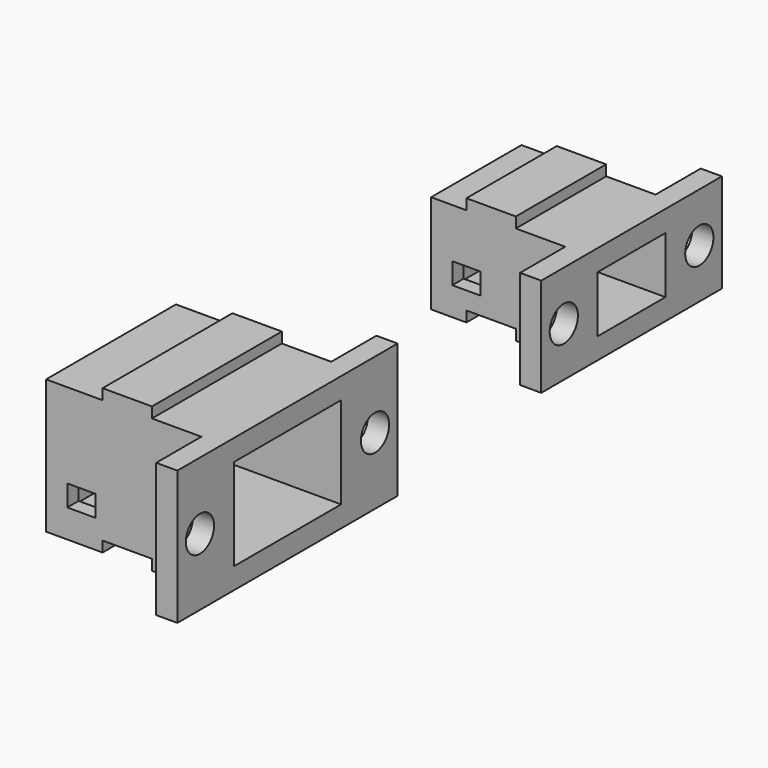
from build123d import *

# Parameters (mm, degrees)
F0_W      = 23
F0_H      = 19
F0_W_2    = 19
F0_H_2    = 13
F1_DEPTH  = 23
F0_W_3    = 8
F0_R      = 2.5
F2_DEPTH  = 3
F3_W      = 23
F3_H      = 19
F4_DEPTH  = 2
F5_W      = 4
F5_H      = 3
F6_DEPTH  = 3
F5_W_2    = 7
F5_H_2    = 1.5
F7_DEPTH  = 23
F8_DEPTH  = 23
F0_W_4    = 16
F0_H_3    = 14
F0_W_5    = 12
F0_H_4    = 8
F9_DEPTH  = 20
F10_DEPTH = 3
F11_W     = 16
F11_H     = 14
F12_DEPTH = 2
F13_W     = 4
F13_H     = 3
F14_DEPTH = 3
F13_W_2   = 7
F13_H_2   = 1.5
F15_DEPTH = 16
F16_DEPTH = 16


with BuildPart() as f1:
    # F0 (on Right) → F1 (new body)
    with BuildSketch(Plane.YZ):
        with Locations((-48.1618642807, 0)):
            Rectangle(F0_W, F0_H)
        with Locations((-48.1618642807, 0)):
            Rectangle(F0_W_2, F0_H_2, mode=Mode.SUBTRACT)
    extrude(amount=-F1_DEPTH)

    # F0 (on Right) → F2 (join)
    with BuildSketch(Plane.YZ):
        with Locations((-63.6618642807, 0)):
            Rectangle(F0_W_3, F0_H)
        with Locations((-63.6618642807, 0)):
            Circle(F0_R, mode=Mode.SUBTRACT)
        with Locations((-32.6618642807, 0)):
            Rectangle(F0_W_3, F0_H)
        with Locations((-32.6618642807, 0)):
            Circle(F0_R, mode=Mode.SUBTRACT)
    extrude(amount=-F2_DEPTH)

    # F3 (on face) → F4 (join)
    with BuildSketch(Plane(origin=(-23, 0, 0), x_dir=(0, -1, 0), z_dir=(-1, 0, 0))):
        with Locations((48.1618642807, 0)):
            Rectangle(F3_W, F3_H)
    extrude(amount=F4_DEPTH)

    # F5 (on face) → F6 (cut)
    with BuildSketch(Plane.XZ.offset(59.6618642807)):
        with Locations((-20, -4)):
            Rectangle(F5_W, F5_H)
    extrude(amount=-F6_DEPTH, mode=Mode.SUBTRACT)

    # F5 (on face) → F7 (join)
    with BuildSketch(Plane.XZ.offset(59.6618642807)):
        with Locations((-13.5, 10.25)):
            Rectangle(F5_W_2, F5_H_2)
    extrude(amount=-F7_DEPTH)

    # F5 (on face) → F8 (cut)
    with BuildSketch(Plane.XZ.offset(59.6618642807)):
        with Locations((-13.5, -8.75)):
            Rectangle(F5_W_2, F5_H_2)
    extrude(amount=-F8_DEPTH, mode=Mode.SUBTRACT)


with BuildPart() as f9:
    # F0 (on Right) → F9 (new body)
    with BuildSketch(Plane.YZ):
        with Locations((12.7792228013, 0)):
            Rectangle(F0_W_4, F0_H_3)
        with Locations((12.7792228013, 0)):
            Rectangle(F0_W_5, F0_H_4, mode=Mode.SUBTRACT)
    extrude(amount=-F9_DEPTH)

    # F0 (on Right) → F10 (join)
    with BuildSketch(Plane.YZ):
        with Locations((0.7792228013, 0)):
            Rectangle(F0_W_3, F0_H_3)
        with Locations((0.7792228013, 0)):
            Circle(F0_R, mode=Mode.SUBTRACT)
        with Locations((24.7792228013, 0)):
            Rectangle(F0_W_3, F0_H_3)
        with Locations((24.7792228013, 0)):
            Circle(F0_R, mode=Mode.SUBTRACT)
    extrude(amount=-F10_DEPTH)

    # F11 (on face) → F12 (join)
    with BuildSketch(Plane(origin=(-20, 0, 0), x_dir=(0, -1, 0), z_dir=(-1, 0, 0))):
        with Locations((-12.7792228013, 0)):
            Rectangle(F11_W, F11_H)
    extrude(amount=F12_DEPTH)

    # F13 (on face) → F14 (cut)
    with BuildSketch(Plane.XZ.offset(-4.7792228013)):
        with Locations((-17, -1.5)):
            Rectangle(F13_W, F13_H)
    extrude(amount=-F14_DEPTH, mode=Mode.SUBTRACT)

    # F13 (on face) → F15 (cut)
    with BuildSketch(Plane.XZ.offset(-4.7792228013)):
        with Locations((-13.5, -6.25)):
            Rectangle(F13_W_2, F13_H_2)
    extrude(amount=-F15_DEPTH, mode=Mode.SUBTRACT)

    # F13 (on face) → F16 (join)
    with BuildSketch(Plane.XZ.offset(-4.7792228013)):
        with Locations((-13.5, 7.75)):
            Rectangle(F13_W_2, F13_H_2)
    extrude(amount=-F16_DEPTH)


solid = Compound([f1.part, f9.part])
